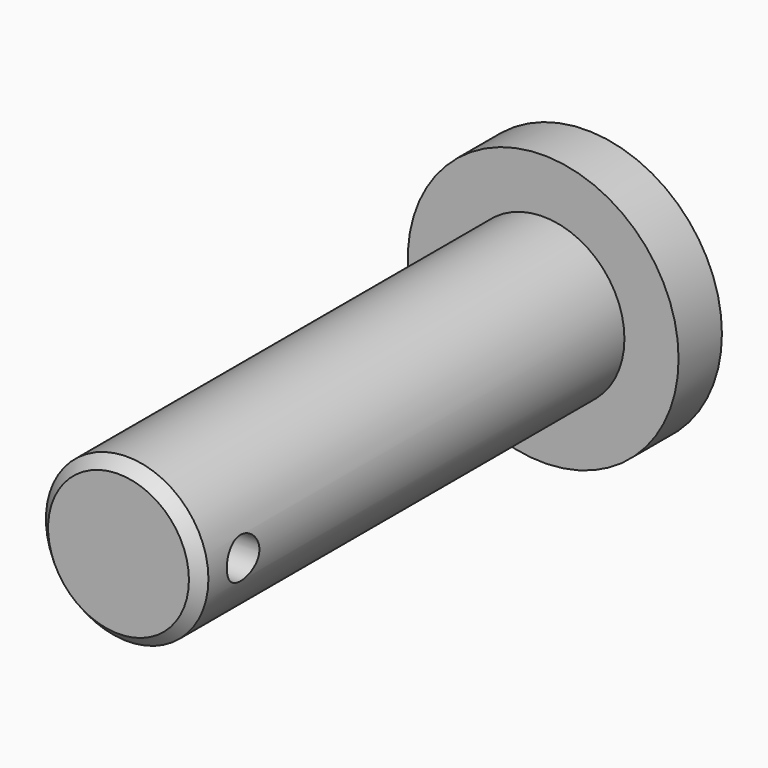
from build123d import *

# Parameters (mm, degrees)
F0_R          = 15.875
F0_R_2        = 9.525
F1_DEPTH      = 6.35
F2_DEPTH      = 62.23
F3_R          = 2.3876
F4_DEPTH      = 25.4
F4_DEPTH_BACK = 25.4
F5_SIZE2      = 1.27
F5_SIZE       = 1.27


with BuildPart() as f1:
    # F0 (on Front) → F1 (new body)
    with BuildSketch(Plane.XZ):
        Circle(F0_R)
        Circle(F0_R_2, mode=Mode.SUBTRACT)
        Circle(F0_R_2)
    extrude(amount=-F1_DEPTH)

    # F0 (on Front) → F2 (join)
    with BuildSketch(Plane.XZ):
        Circle(F0_R_2)
    extrude(amount=F2_DEPTH)

    # F3 (on Right) → F4 (cut, two sides)
    with BuildSketch(Plane.YZ) as f4_sk:
        with Locations((-55.88, 0)):
            Circle(F3_R)
    extrude(amount=-F4_DEPTH, mode=Mode.SUBTRACT)
    extrude(f4_sk.sketch, amount=F4_DEPTH_BACK, mode=Mode.SUBTRACT)

    # F5
    f5_edges = [f1.edges().sort_by_distance(p)[0] for p in [
        (-9.525, -62.23, 0),
    ]]
    chamfer(f5_edges, length=F5_SIZE, length2=F5_SIZE2)


solid = f1.part
